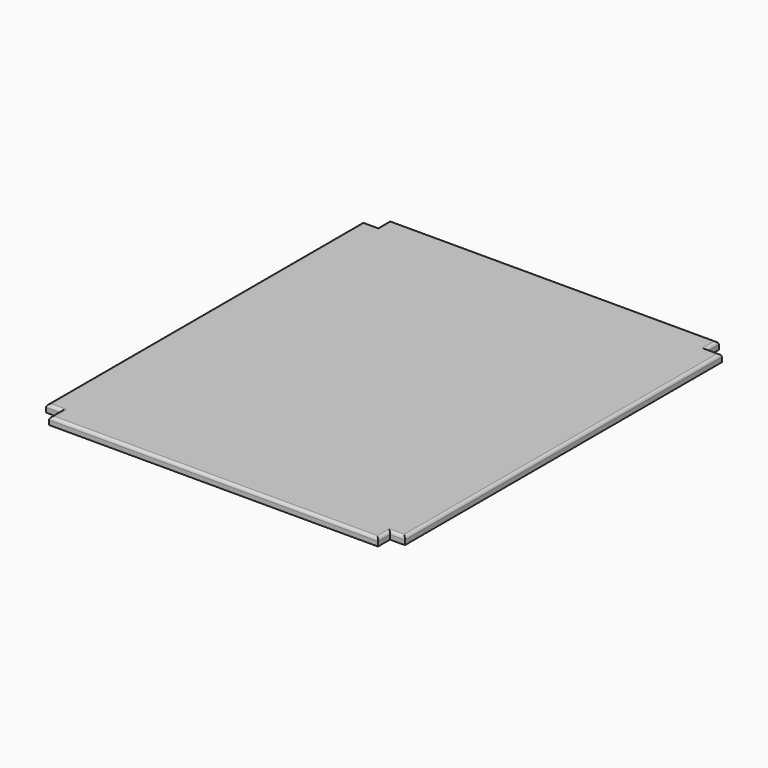
from build123d import *

# Parameters (mm, degrees)
F1_DEPTH = 12.7
F2_R     = 5.08


with BuildPart() as f1:
    # F0 (on Top) → F1 (new body)
    with BuildSketch(Plane.XY):
        Polygon((279.4, 361.95), (-279.4, 361.95), (-279.4, 336.55), (-304.8, 336.55), (-304.8, -336.55), (-279.4, -336.55), (-279.4, -361.95), (279.4, -361.95), (279.4, -336.55), (304.8, -336.55), (304.8, 336.55), (279.4, 336.55), align=None)
    extrude(amount=F1_DEPTH)

    # F2
    f2_edges = [f1.edges().sort_by_distance(p)[0] for p in [
        (-304.8, 0, 12.7),
        (0, -361.95, 12.7),
        (304.8, 0, 12.7),
        (0, 361.95, 12.7),
        (-292.1, 336.55, 12.7),
        (-279.4, 349.25, 12.7),
        (279.4, 349.25, 12.7),
        (292.1, 336.55, 12.7),
        (-292.1, -336.55, 12.7),
        (-279.4, -349.25, 12.7),
        (279.4, -349.25, 12.7),
        (292.1, -336.55, 12.7),
    ]]
    fillet(f2_edges, radius=F2_R)


solid = f1.part
